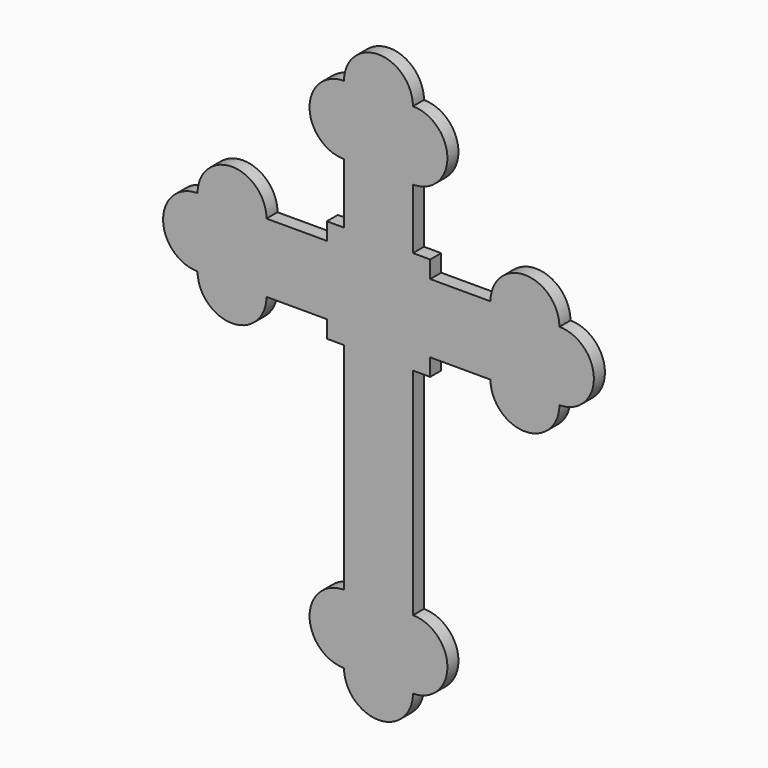
from build123d import *

# Parameters (mm, degrees)
F1_DEPTH = 4


with BuildPart() as f1:
    # F0 (on Front) → F1 (new body)
    with BuildSketch(Plane.XZ):
        with BuildLine():
            Line((-32.5, 12.5), (-15, 12.5))
            Line((-15, 12.5), (-15, 7.5))
            Line((-15, 7.5), (-10, 7.5))
            Line((-10, 7.5), (-10, -55))
            ThreePointArc((-10, -55), (-20, -65), (-10, -75))
            ThreePointArc((-10, -75), (0, -85), (10, -75))
            ThreePointArc((10, -75), (20, -65), (10, -55))
            Line((10, -55), (10, 7.5))
            Line((10, 7.5), (15, 7.5))
            Line((15, 7.5), (15, 12.5))
            Line((15, 12.5), (32.5, 12.5))
            ThreePointArc((32.5, 12.5), (42.5, 2.5), (52.5, 12.5))
            ThreePointArc((52.5, 12.5), (62.5, 22.5), (52.5, 32.5))
            ThreePointArc((52.5, 32.5), (42.5, 42.5), (32.5, 32.5))
            Line((32.5, 32.5), (15, 32.5))
            Line((15, 32.5), (15, 37.5))
            Line((15, 37.5), (10, 37.5))
            Line((10, 37.5), (10, 55))
            ThreePointArc((10, 55), (20, 65), (10, 75))
            ThreePointArc((10, 75), (0, 85), (-10, 75))
            ThreePointArc((-10, 75), (-20, 65), (-10, 55))
            Line((-10, 55), (-10, 37.5))
            Line((-10, 37.5), (-15, 37.5))
            Line((-15, 37.5), (-15, 32.5))
            Line((-15, 32.5), (-32.5, 32.5))
            ThreePointArc((-32.5, 32.5), (-42.5, 42.5), (-52.5, 32.5))
            ThreePointArc((-52.5, 32.5), (-62.5, 22.5), (-52.5, 12.5))
            ThreePointArc((-52.5, 12.5), (-42.5, 2.5), (-32.5, 12.5))
        make_face()
    extrude(amount=F1_DEPTH)


solid = f1.part
